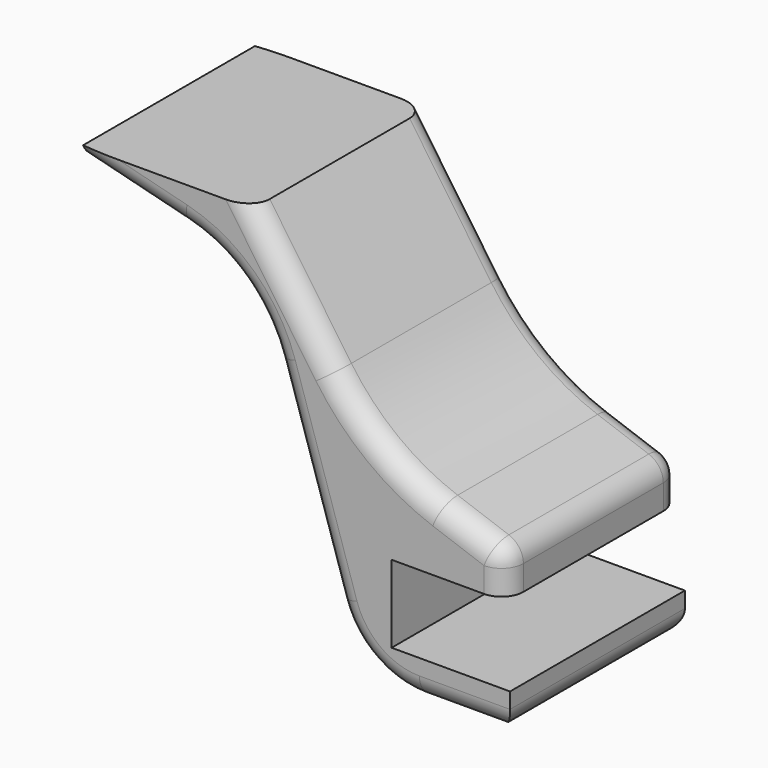
from build123d import *

# Parameters (mm, degrees)
F1_DEPTH = 50
F2_R     = 50
F3_R     = 30
F4_R     = 20
F5_R     = 5
F6_R     = 5


with BuildPart() as f1:
    # F0 (on Front) → F1 (new body)
    with BuildSketch(Plane.XZ):
        Polygon((-23.6634109169, 31.7528273398), (0, -41.8914239646), (35.305287689, -41.8914239646), (35.305287689, -33.2806184888), (8.2252407447, -33.2806184888), (8.2252407447, -15.5646987259), (34.3599072305, -15.5646987259), (34.3599072305, -6.3414066872), (4.1758916341, 4.428982269), (-23.6634109169, 44.6694269776), (-62.7042563281, 44.6694269776), (-62.7042563281, 41.6324101388), align=None)
    extrude(amount=F1_DEPTH)

    # F2
    f2_edges = [f1.edges().sort_by_distance(p)[0] for p in [
        (4.175892, -25, 4.428982),
    ]]
    fillet(f2_edges, radius=F2_R)

    # F3
    f3_edges = [f1.edges().sort_by_distance(p)[0] for p in [
        (-23.663411, -25, 31.752827),
    ]]
    fillet(f3_edges, radius=F3_R)

    # F4
    f4_edges = [f1.edges().sort_by_distance(p)[0] for p in [
        (0, -25, -41.891424),
    ]]
    fillet(f4_edges, radius=F4_R)

    # F5
    f5_edges = [f1.edges().sort_by_distance(p)[0] for p in [
        (35.305288, -25, -41.891424),
        (34.359907, -25, -6.341407),
        (2.798647, 0, -38.052587),
        (-4.460469, -25, -28.009743),
        (14.580701, -25, -41.891424),
        (2.798647, -50, -38.052587),
    ]]
    fillet(f5_edges, radius=F5_R)

    # F6
    f6_edges = [f1.edges().sort_by_distance(p)[0] for p in [
        (-14.322206, -50, 31.16714),
        (5.713271, 0, 6.433938),
    ]]
    fillet(f6_edges, radius=F6_R)


solid = f1.part
